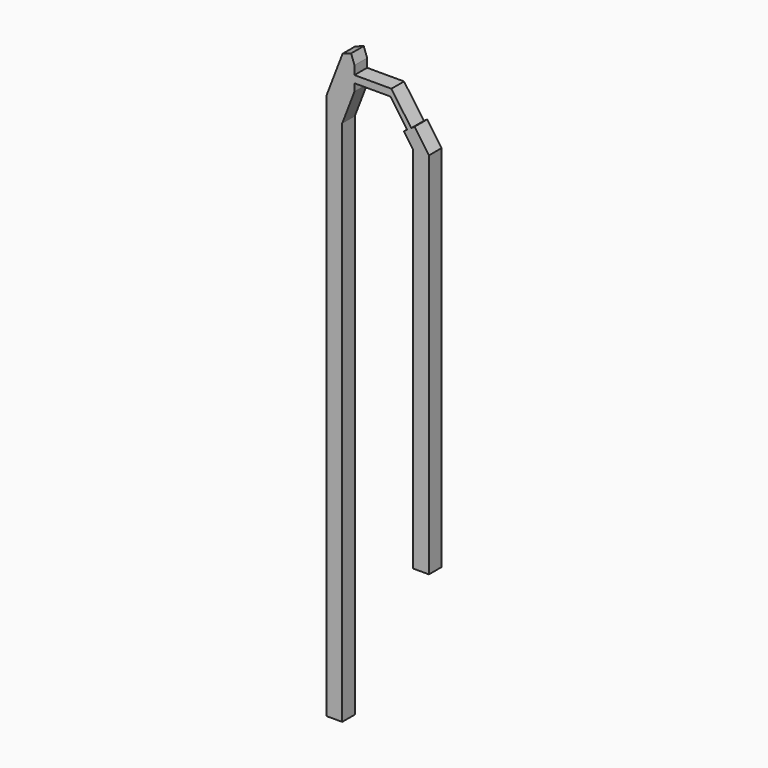
from build123d import *

# Parameters (mm, degrees)
F1_DEPTH = 0.25


with BuildPart() as f1:
    # F0 (on Front) → F1 (new body, symmetric)
    with BuildSketch(Plane.XZ):
        Polygon((-1.534742, 2.275917), (-1.534742, -15), (-1.034742, -15), (-1.034742, 1.667683), (-0.646569, 2.680215), (-0.646569, 2.910485), (0.489206, 2.910485), (1.019352, 2.154198), (0.917687, 2.082932), (1.20877, 1.667683), (1.20877, -10), (1.70877, -10), (1.70877, 1.667683), (1.252947, 2.317944), (1.148076, 2.244432), (0.521706, 3.137989), (-0.646569, 3.137989), (-0.646569, 3.4096), (-0.752966, 3.707512), (-1.022868, 3.611119), align=None)
    extrude(amount=F1_DEPTH, both=True)


solid = f1.part
